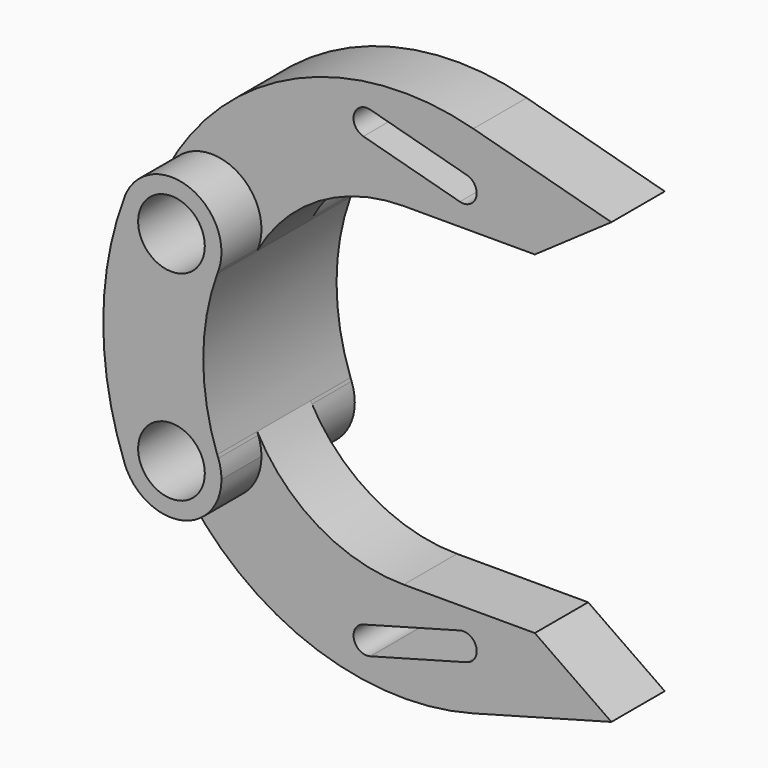
from build123d import *

# Parameters (mm, degrees)
F0_R     = 5
F1_DEPTH = 12.5
F2_DEPTH = 5
F3_R     = 5
F5_DEPTH = 7.5


with BuildPart() as f1:
    # F0 (on Front) → F1 (new body, symmetric)
    with BuildSketch(Plane.XZ):
        with BuildLine():
            ThreePointArc((6.8596340788, 11.9264922445), (6.9377952197, 12.139972805), (7.0173413473, 12.3529411765))
            ThreePointArc((7.0173413473, 12.3529411765), (6.8474920043, 11.9402854297), (6.6534014969, 11.5384615385))
            ThreePointArc((6.6534014969, 11.5384615385), (6.7556652076, 11.7329300253), (6.8596340788, 11.9264922445))
        make_face()
        with BuildLine():
            ThreePointArc((7.0173413473, -12.3529411765), (6.9377952197, -12.139972805), (6.8596340788, -11.9264922445))
            ThreePointArc((6.8596340788, -11.9264922445), (6.7556652076, -11.7329300253), (6.6534014969, -11.5384615385))
            ThreePointArc((6.6534014969, -11.5384615385), (6.8474920043, -11.9402854297), (7.0173413473, -12.3529411765))
        make_face()
        with BuildLine():
            ThreePointArc((6.6534014969, -11.5384615385), (-3.0597145703, -8.1525079957), (-7.0173413473, -17.6470588235))
            ThreePointArc((-7.0173413473, -17.6470588235), (-6.8474920043, -18.0597145703), (-6.6534014969, -18.4615384615))
            ThreePointArc((-6.6534014969, -18.4615384615), (1.7817812398, -22.2852766326), (7.5, -15))
            ThreePointArc((7.5, -15), (7.3783487348, -13.6546487642), (7.0173413473, -12.3529411765))
            ThreePointArc((7.0173413473, -12.3529411765), (6.8474920043, -11.9402854297), (6.6534014969, -11.5384615385))
        make_face()
        with Locations((0, -15)):
            Circle(F0_R, mode=Mode.SUBTRACT)
        with BuildLine():
            ThreePointArc((6.6534014969, 11.5384615385), (-3.0597145703, 8.1525079957), (-7.0173413473, 17.6470588235))
            ThreePointArc((-7.0173413473, 17.6470588235), (-10.2350656985, 0), (-7.0173413473, -17.6470588235))
            ThreePointArc((-7.0173413473, -17.6470588235), (-3.0597145703, -8.1525079957), (6.6534014969, -11.5384615385))
            ThreePointArc((6.6534014969, -11.5384615385), (6.7556652076, -11.7329300253), (6.8596340788, -11.9264922445))
            ThreePointArc((6.8596340788, -11.9264922445), (4.7649343015, 0), (6.8596340788, 11.9264922445))
            ThreePointArc((6.8596340788, 11.9264922445), (6.7556652076, 11.7329300253), (6.6534014969, 11.5384615385))
        make_face()
        with BuildLine():
            ThreePointArc((7.0173413473, 12.3529411765), (7.3783487348, 13.6546487642), (7.5, 15))
            ThreePointArc((7.5, 15), (1.7817812398, 22.2852766326), (-6.6534014969, 18.4615384615))
            ThreePointArc((-6.6534014969, 18.4615384615), (-6.8474920043, 18.0597145703), (-7.0173413473, 17.6470588235))
            ThreePointArc((-7.0173413473, 17.6470588235), (-3.0597145703, 8.1525079957), (6.6534014969, 11.5384615385))
            ThreePointArc((6.6534014969, 11.5384615385), (6.8474920043, 11.9402854297), (7.0173413473, 12.3529411765))
        make_face()
        with Locations((0, 15)):
            Circle(F0_R, mode=Mode.SUBTRACT)
    extrude(amount=F1_DEPTH, both=True)

    # F0 (on Front) → F2 (join, symmetric)
    with BuildSketch(Plane.XZ):
        with BuildLine():
            ThreePointArc((28.8314064867, -25), (16.0478683636, -21.4844397892), (6.8596340788, -11.9264922445))
            ThreePointArc((6.8596340788, -11.9264922445), (6.9377952197, -12.139972805), (7.0173413473, -12.3529411765))
            ThreePointArc((7.0173413473, -12.3529411765), (7.3783487348, -13.6546487642), (7.5, -15))
            ThreePointArc((7.5, -15), (1.7817812398, -22.2852766326), (-6.6534014969, -18.4615384615))
            ThreePointArc((-6.6534014969, -18.4615384615), (12.7660784434, -36.6320247169), (39.2872644776, -38.6092609833))
            Line((39.2872644776, -38.6092609833), (60, -33))
            Line((60, -33), (48.5096588292, -25))
            Line((48.5096588292, -25), (28.8314064867, -25))
        make_face()
        with BuildLine():
            ThreePointArc((37.2661231393, -28.311901738), (39.719379088, -29.7195718876), (38.3117089384, -32.1728278363))
            Line((38.3117089384, -32.1728278363), (23.8332360697, -36.0937745829))
            ThreePointArc((23.8332360697, -36.0937745829), (21.3799801209, -34.6861044333), (22.7876502706, -32.2328484846))
            Line((22.7876502706, -32.2328484846), (37.2661231393, -28.311901738))
        make_face(mode=Mode.SUBTRACT)
        with BuildLine():
            ThreePointArc((-6.6534014969, 18.4615384615), (1.7817812398, 22.2852766326), (7.5, 15))
            ThreePointArc((7.5, 15), (7.3783487348, 13.6546487642), (7.0173413473, 12.3529411765))
            ThreePointArc((7.0173413473, 12.3529411765), (6.9377952197, 12.139972805), (6.8596340788, 11.9264922445))
            ThreePointArc((6.8596340788, 11.9264922445), (16.0478683636, 21.4844397892), (28.8314064867, 25))
            Line((28.8314064867, 25), (48.5096588292, 25))
            Line((48.5096588292, 25), (60, 33))
            Line((60, 33), (39.2872644776, 38.6092609833))
            ThreePointArc((39.2872644776, 38.6092609833), (12.7660784434, 36.6320247169), (-6.6534014969, 18.4615384615))
        make_face()
        with BuildLine():
            ThreePointArc((22.7876502706, 32.2328484846), (21.3799801209, 34.6861044333), (23.8332360697, 36.0937745829))
            Line((23.8332360697, 36.0937745829), (38.3117089384, 32.1728278363))
            ThreePointArc((38.3117089384, 32.1728278363), (39.719379088, 29.7195718876), (37.2661231393, 28.311901738))
            Line((37.2661231393, 28.311901738), (22.7876502706, 32.2328484846))
        make_face(mode=Mode.SUBTRACT)
    extrude(amount=F2_DEPTH, both=True)

    # F3 (on face) → F5 (cut, symmetric)
    with BuildSketch(Plane(origin=(0, 12.5, 0), x_dir=(-1, 0, 0), z_dir=(0, 1, 0))):
        with Locations((2.7350656985, 0)):
            Circle(F3_R)
    extrude(amount=F5_DEPTH, both=True, mode=Mode.SUBTRACT)


solid = f1.part
